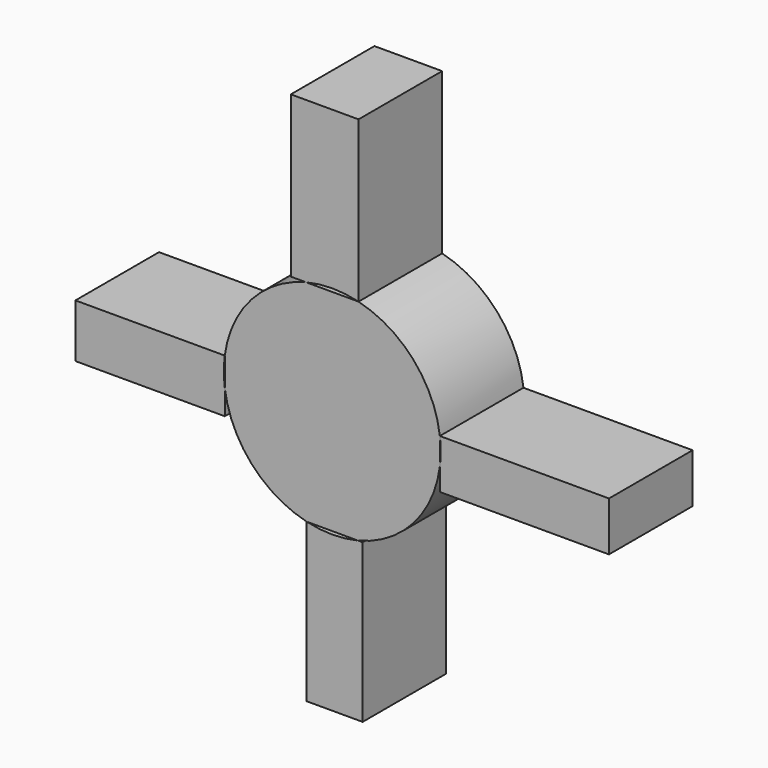
from build123d import *

# Parameters (mm, degrees)
F1_DEPTH = 25.4


with BuildPart() as f1:
    # F0 (on Front) → F1 (new body)
    with BuildSketch(Plane.XZ):
        with BuildLine():
            Line((26.1503, -3.246283), (26.1503, 3.246283))
            ThreePointArc((26.1503, 3.246283), (19.728036, 17.469435), (6.386419, 25.56541))
            Line((6.386419, 25.56541), (-6.386419, 25.56541))
            ThreePointArc((-6.386419, 25.56541), (-19.658118, 17.548075), (-26.12354, 3.455028))
            Line((-26.12354, 3.455028), (-26.12354, -3.455028))
            ThreePointArc((-26.12354, -3.455028), (-19.604436, -17.608028), (-6.230151, -25.603941))
            Line((-6.230151, -25.603941), (6.230151, -25.603941))
            ThreePointArc((6.230151, -25.603941), (19.674593, -17.529602), (26.1503, -3.246283))
        make_face()
        with BuildLine():
            ThreePointArc((-6.386419, 25.56541), (0, 26.351026), (6.386419, 25.56541))
            Line((6.386419, 25.56541), (6.386419, 64.571835))
            Line((6.386419, 64.571835), (-10.068373, 64.571835))
            Line((-10.068373, 64.571835), (-10.068373, 25.56541))
            Line((-10.068373, 25.56541), (-6.386419, 25.56541))
        make_face()
        with BuildLine():
            ThreePointArc((-26.12354, -3.455028), (-26.351026, 0), (-26.12354, 3.455028))
            Line((-26.12354, 3.455028), (-62.423911, 3.455028))
            Line((-62.423911, 3.455028), (-62.423911, -9.531393))
            Line((-62.423911, -9.531393), (-26.12354, -9.531393))
            Line((-26.12354, -9.531393), (-26.12354, -3.455028))
        make_face()
        with BuildLine():
            ThreePointArc((26.1503, 3.246283), (26.300797, 1.626242), (26.351026, 0))
            ThreePointArc((26.351026, 0), (26.300797, -1.626242), (26.1503, -3.246283))
            Line((26.1503, -3.246283), (26.1503, -8.725923))
            Line((26.1503, -8.725923), (67.256734, -8.725923))
            Line((67.256734, -8.725923), (67.256734, 3.246283))
            Line((67.256734, 3.246283), (26.1503, 3.246283))
        make_face()
        with BuildLine():
            Line((7.383475, -25.603941), (6.230151, -25.603941))
            ThreePointArc((6.230151, -25.603941), (0, -26.351026), (-6.230151, -25.603941))
            Line((-6.230151, -25.603941), (-6.230151, -64.034849))
            Line((-6.230151, -64.034849), (7.383475, -64.034849))
            Line((7.383475, -64.034849), (7.383475, -25.603941))
        make_face()
    extrude(amount=F1_DEPTH)


solid = f1.part
